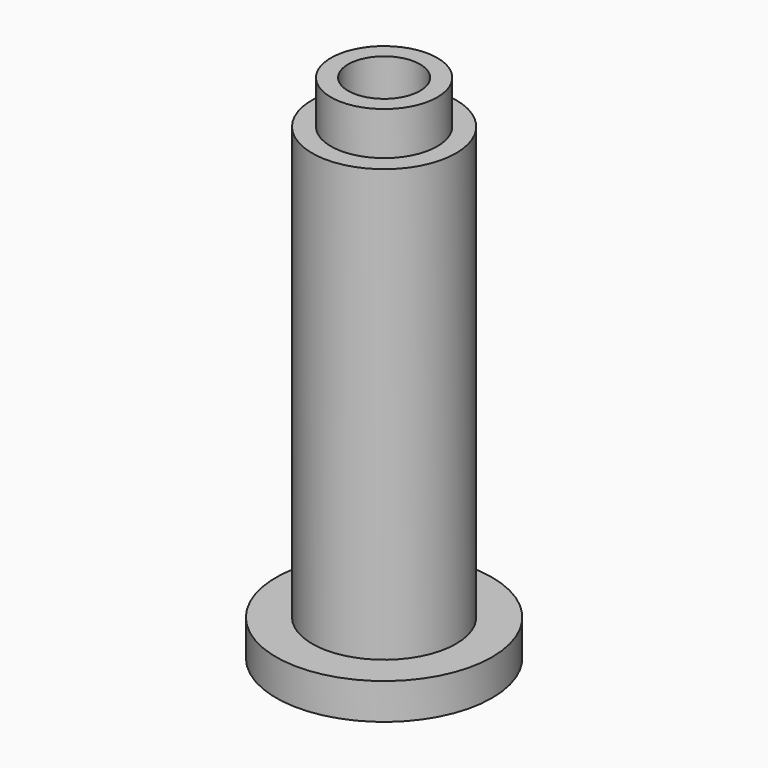
from build123d import *

# Parameters (mm, degrees)
F0_R     = 19.05
F1_DEPTH = 6.35
F2_R     = 12.7
F3_DEPTH = 76.2
F4_R     = 9.398
F5_DEPTH = 7.62
F7_D     = 12.7


with BuildPart() as f1:
    # F0 (on Top) → F1 (new body)
    with BuildSketch(Plane.XY):
        Circle(F0_R)
    extrude(amount=F1_DEPTH)

    # F2 (on face) → F3 (join)
    with BuildSketch(Plane.XY.offset(6.35)):
        Circle(F2_R)
    extrude(amount=F3_DEPTH)

    # F4 (on face) → F5 (join)
    with BuildSketch(Plane.XY.offset(82.55)):
        Circle(F4_R)
    extrude(amount=F5_DEPTH)

    # F7 (through all)
    with Locations(Plane.XY.offset(90.17)):
        with Locations((0, 0)):
            Hole(F7_D / 2)


solid = f1.part
